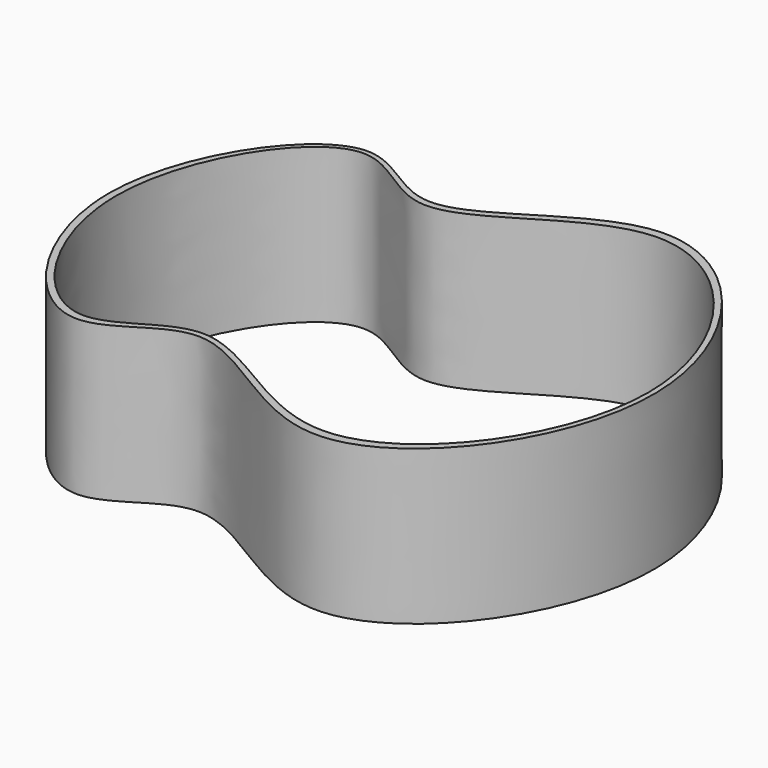
from build123d import *

# Parameters (mm, degrees)
F1_DEPTH = 53.975


with BuildPart() as f1:
    # F0 (on Top) → F1 (new body)
    with BuildSketch(Plane.XY):
        with BuildLine():
            add(Edge.make_bspline(
                [(-157.4847415165, -34.6323136806), (-157.4847415165, -3.4882287694), (-120.905241971, 49.3103577472), (-84.811480296, -2.5834170008), (-19.8129355902, 72.7633826823), (61.6709543939, -34.6323136806), (-19.8129355902, -142.0280100435), (-84.811480296, -66.6812103604), (-120.905241971, -118.5749851084), (-157.4847415165, -65.7763985918), (-157.4847415165, -34.6323136806)],
                knots=[0, 0, 0, 0, 0.1323947401, 0.2244488852, 0.3505322945, 0.5, 0.6494677055, 0.7755511148, 0.8676052599, 1, 1, 1, 1], degree=3))
        make_face()
        with BuildLine():
            add(Edge.make_bspline(
                [(-155.0009101629, -34.6323136806), (-155.0688018245, -4.5287829009), (-121.0318605903, 47.8103394627), (-84.8592049051, -5.2309188442), (-19.9654519734, 69.0516614787), (58.7790785081, -34.7532024389), (-19.9512436702, -137.7750350915), (-84.6857417305, -65.2916011376), (-121.1160000509, -114.8708483565), (-154.9334617421, -64.5393091144), (-155.0009101629, -34.6323136806)],
                knots=[0, 0, 0, 0, 0.1315177535, 0.2250082378, 0.3523857497, 0.5008476016, 0.6492681269, 0.776503957, 0.8693408795, 1, 1, 1, 1], degree=3))
        make_face(mode=Mode.SUBTRACT)
    extrude(amount=F1_DEPTH)


solid = f1.part
